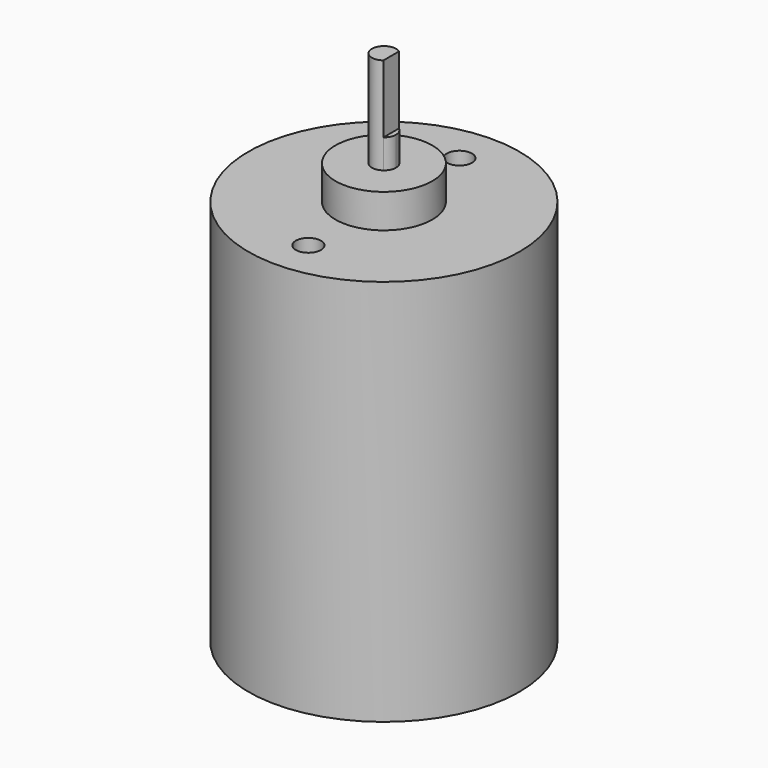
from build123d import *

# Parameters (mm, degrees)
F0_R     = 17.78
F0_R_2   = 6.35
F1_DEPTH = 50.8
F2_DEPTH = 55.245
F3_DEPTH = 67.945
F4_DEPTH = 59.055
F6_D     = 3.3
F6_DEPTH = 7
F6_TIP   = 0.9914200214


with BuildPart() as f1:
    # F0 (on Top) → F1 (new body)
    with BuildSketch(Plane.XY):
        Circle(F0_R)
        Circle(F0_R_2, mode=Mode.SUBTRACT)
    extrude(amount=F1_DEPTH)

    # F0 (on Top) → F2 (join)
    with BuildSketch(Plane.XY):
        Circle(F0_R_2)
        with BuildLine():
            ThreePointArc((0.9525, 1.27), (1.4199031657, 0.7099515829), (1.5875, 0))
            ThreePointArc((1.5875, 0), (1.4199031657, -0.7099515829), (0.9525, -1.27))
            ThreePointArc((0.9525, -1.27), (-1.5875, 0), (0.9525, 1.27))
        make_face(mode=Mode.SUBTRACT)
    extrude(amount=F2_DEPTH)

    # F0 (on Top) → F3 (join)
    with BuildSketch(Plane.XY):
        with BuildLine():
            Line((0.9525, -1.27), (0.9525, 1.27))
            ThreePointArc((0.9525, 1.27), (-1.5875, 0), (0.9525, -1.27))
        make_face()
    extrude(amount=F3_DEPTH)

    # F0 (on Top) → F4 (join)
    with BuildSketch(Plane.XY):
        with BuildLine():
            ThreePointArc((0.9525, -1.27), (1.4199031657, -0.7099515829), (1.5875, 0))
            ThreePointArc((1.5875, 0), (1.4199031657, 0.7099515829), (0.9525, 1.27))
            Line((0.9525, 1.27), (0.9525, -1.27))
        make_face()
    extrude(amount=F4_DEPTH)

    # F6
    with Locations(Plane.XY.offset(50.8)):
        with Locations((0, 12.3825), (0, -12.3825)):
            Hole(F6_D / 2, depth=F6_DEPTH)
            with Locations((0, 0, -(F6_DEPTH + F6_TIP / 2))):  # 118° drill point
                Cone(0, F6_D / 2, F6_TIP, mode=Mode.SUBTRACT)


solid = f1.part
